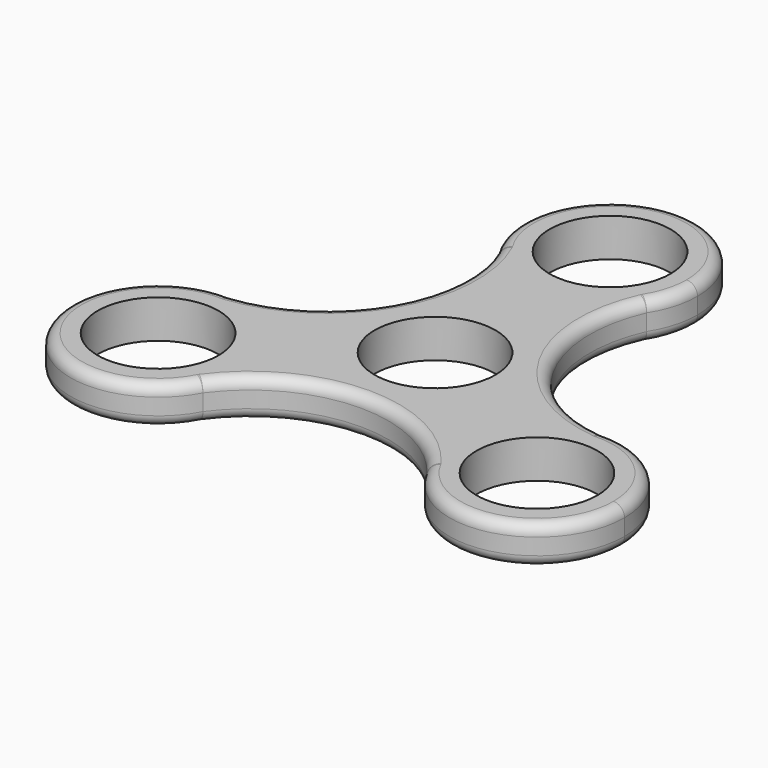
from build123d import *

# Parameters (mm, degrees)
F0_R     = 11.05
F1_DEPTH = 7
F2_R     = 2


with BuildPart() as f1:
    # F0 (on Top) → F1 (new body)
    with BuildSketch(Plane.XY):
        with BuildLine():
            ThreePointArc((-18.6410161514, -20), (-23.1084946716, -8.9094207401), (-34.0161346913, -4.0122070579))
            ThreePointArc((-34.0161346913, -4.0122070579), (-48.4974226119, -28), (-20.482740583, -27.4527332523))
            ThreePointArc((-20.482740583, -27.4527332523), (-19.1082699503, -23.8384626419), (-18.6410161514, -20))
        make_face()
        with Locations((-34.6410161514, -20)):
            Circle(F0_R, mode=Mode.SUBTRACT)
        with BuildLine():
            ThreePointArc((13.5333941083, 31.4649403102), (0, 24), (-13.5333941083, 31.4649403102))
            ThreePointArc((-13.5333941083, 31.4649403102), (-14.7303401287, 8.5045658385), (-34.0161346913, -4.0122070579))
            ThreePointArc((-34.0161346913, -4.0122070579), (-23.1084946716, -8.9094207401), (-18.6410161514, -20))
            ThreePointArc((-18.6410161514, -20), (-19.1082699503, -23.8384626419), (-20.482740583, -27.4527332523))
            ThreePointArc((-20.482740583, -27.4527332523), (0, -17.0091316771), (20.482740583, -27.4527332523))
            ThreePointArc((20.482740583, -27.4527332523), (20.7846096908, -12), (34.0161346913, -4.0122070579))
            ThreePointArc((34.0161346913, -4.0122070579), (14.7303401287, 8.5045658385), (13.5333941083, 31.4649403102))
        make_face()
        Circle(F0_R, mode=Mode.SUBTRACT)
        with BuildLine():
            ThreePointArc((13.5333941083, 31.4649403102), (15.3709841216, 35.5578330588), (16, 40))
            ThreePointArc((16, 40), (-4.4421669412, 55.3709841216), (-13.5333941083, 31.4649403102))
            ThreePointArc((-13.5333941083, 31.4649403102), (0, 24), (13.5333941083, 31.4649403102))
        make_face()
        with Locations((0, 40)):
            Circle(F0_R, mode=Mode.SUBTRACT)
        with BuildLine():
            ThreePointArc((50.6410161514, -20), (45.7315954113, -8.4674785203), (34.0161346913, -4.0122070579))
            ThreePointArc((34.0161346913, -4.0122070579), (20.7846096908, -12), (20.482740583, -27.4527332523))
            ThreePointArc((20.482740583, -27.4527332523), (38.4794787932, -35.5327462011), (50.6410161514, -20))
        make_face()
        with Locations((34.6410161514, -20)):
            Circle(F0_R, mode=Mode.SUBTRACT)
    extrude(amount=F1_DEPTH)

    # F2 (call 1 of 2: OpenCascade refuses the feature's edges together)
    f2_edges = [f1.edges().sort_by_distance(p)[0] for p in [
        (0, 56, 7),
        (-14.73034, 8.504566, 7),
        (-48.497423, -28, 7),
        (0, -17.009132, 7),
        (14.73034, 8.504566, 7),
        (48.497423, -28, 7),
    ]]
    fillet(f2_edges, radius=F2_R)

    # F2#2 (call 2 of 2)
    f2_2_edges = [f1.edges().sort_by_distance(p)[0] for p in [
        (-14.73034, 8.504566, 0),
        (0, 56, 0),
        (-48.497423, -28, 0),
        (0, -17.009132, 0),
        (14.73034, 8.504566, 0),
        (48.497423, -28, 0),
    ]]
    fillet(f2_2_edges, radius=F2_R)


solid = f1.part
